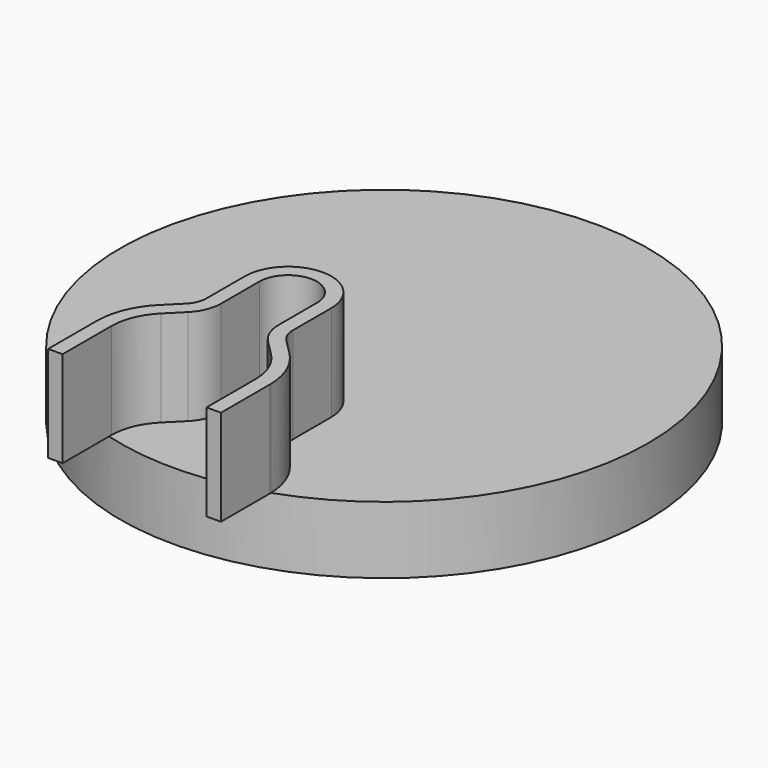
from build123d import *

# Parameters (mm, degrees)
F0_R     = 55
F1_DEPTH = 14
F2_R     = 52
F3_DEPTH = 7
F4_R     = 6
F5_DEPTH = 14.001
F7_DEPTH = 20


with BuildPart() as f1:
    # F0 (on Top) → F1 (new body)
    with BuildSketch(Plane.XY):
        Circle(F0_R)
    extrude(amount=F1_DEPTH)

    # F2 (on face) → F3 (cut)
    with BuildSketch(Plane(origin=(0, 0, 0), x_dir=(1, 0, 0), z_dir=(0, 0, -1))):
        Circle(F2_R)
    extrude(amount=-F3_DEPTH, mode=Mode.SUBTRACT)

    # F4 (on face) → F5 (cut, through all)
    with BuildSketch(Plane.XY.offset(14)):
        with Locations((0, -25)):
            Circle(F4_R)
    extrude(amount=-F5_DEPTH, mode=Mode.SUBTRACT)

    # F6 (on face) → F7 (join)
    with BuildSketch(Plane.XY.offset(14)):
        with BuildLine():
            Line((-15, -65), (-15, -52.915026))
            ThreePointArc((-15, -52.915026), (-16.50511, -52.465049), (-17.996755, -51.97227))
            ThreePointArc((-17.996755, -51.97227), (-17.999189, -52.128262), (-18, -52.284271))
            Line((-18, -52.284271), (-18, -65))
            Line((-18, -65), (-15, -65))
        make_face()
        with BuildLine():
            Line((-6, -35), (-6, -25))
            ThreePointArc((-6, -25), (0, -19), (6, -25))
            Line((6, -25), (6, -35))
            ThreePointArc((6, -35), (6.608964, -38.061467), (8.343146, -40.656854))
            Line((8.343146, -40.656854), (11.485281, -43.79899))
            ThreePointArc((11.485281, -43.79899), (14.086554, -47.69207), (15, -52.284271))
            Line((15, -52.284271), (15, -52.915026))
            ThreePointArc((15, -52.915026), (16.50511, -52.465049), (17.996755, -51.97227))
            ThreePointArc((17.996755, -51.97227), (16.797741, -46.400197), (13.606602, -41.67767))
            Line((13.606602, -41.67767), (10.464466, -38.535534))
            ThreePointArc((10.464466, -38.535534), (9.380602, -36.913417), (9, -35))
            Line((9, -35), (9, -25))
            ThreePointArc((9, -25), (0, -16), (-9, -25))
            Line((-9, -25), (-9, -35))
            ThreePointArc((-9, -35), (-9.380602, -36.913417), (-10.464466, -38.535534))
            Line((-10.464466, -38.535534), (-13.606602, -41.67767))
            ThreePointArc((-13.606602, -41.67767), (-16.797741, -46.400197), (-17.996755, -51.97227))
            ThreePointArc((-17.996755, -51.97227), (-16.50511, -52.465049), (-15, -52.915026))
            Line((-15, -52.915026), (-15, -52.284271))
            ThreePointArc((-15, -52.284271), (-14.086554, -47.69207), (-11.485281, -43.79899))
            Line((-11.485281, -43.79899), (-8.343146, -40.656854))
            ThreePointArc((-8.343146, -40.656854), (-6.608964, -38.061467), (-6, -35))
        make_face()
        with BuildLine():
            ThreePointArc((17.996755, -51.97227), (16.50511, -52.465049), (15, -52.915026))
            Line((15, -52.915026), (15, -65))
            Line((15, -65), (18, -65))
            Line((18, -65), (18, -52.284271))
            ThreePointArc((18, -52.284271), (17.999189, -52.128262), (17.996755, -51.97227))
        make_face()
    extrude(amount=F7_DEPTH)


solid = f1.part
